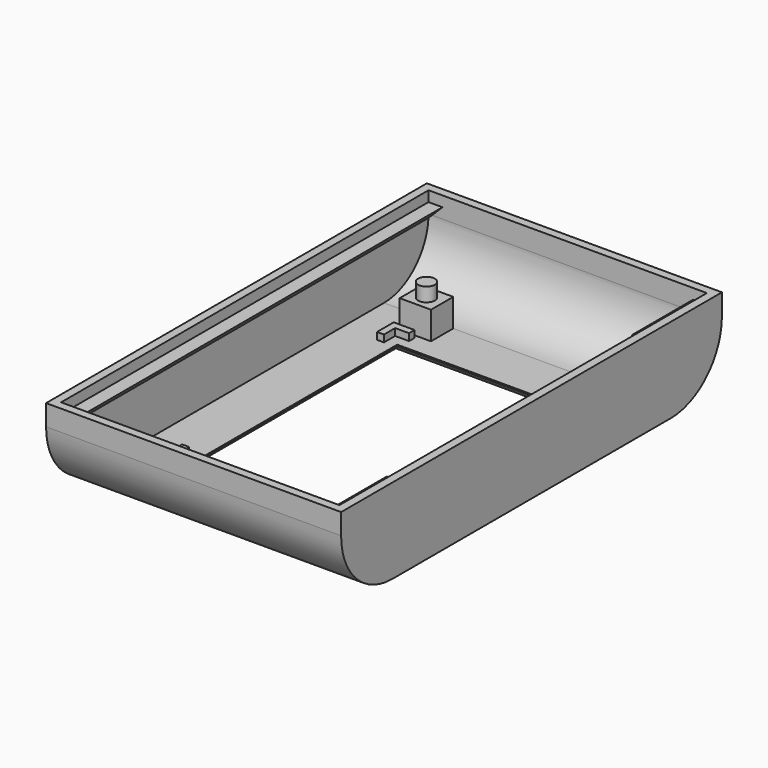
from build123d import *

# Parameters (mm, degrees)
PAD_DEPTH          = 18
PAD_DEPTH_BACK     = 22
THICKNESS_T        = 1.2
SKETCH002_W        = 29
SKETCH002_H        = 36
POCKET_DEPTH       = 12.201
CHAMFER_SIZE       = 1
PAD002_DEPTH       = 1
POLARPATTERN_COUNT = 2
PAD007_DEPTH       = 66
PAD008_DEPTH       = 66
SKETCH010_W        = 2
SKETCH010_H        = 44
POCKET001_DEPTH    = 2
SKETCH004_W        = 4
SKETCH004_H        = 4
PAD004_DEPTH       = 2.25
SKETCH006_R        = 1.2
PAD005_DEPTH       = 2
PAD003_DEPTH       = 2.25
PAD003_DEPTH_BACK  = 2.25
SKETCH007_R        = 1.2
PAD006_DEPTH       = 2


with BuildPart() as cuerpoprincipal:
    # Sketch → Pad (new body, two sides)
    with BuildSketch(Plane.YZ) as pad_sk:
        with BuildLine():
            Line((-25, 0), (25, 0))
            ThreePointArc((25, 0), (30.6568542495, 2.3431457505), (33, 8))
            Line((33, 11), (33, 8))
            Line((-33, 11), (33, 11))
            Line((-33, 11), (-33, 8))
            ThreePointArc((-33, 8), (-30.6568542495, 2.3431457505), (-25, 0))
        make_face()
    extrude(amount=PAD_DEPTH)
    extrude(pad_sk.sketch, amount=-PAD_DEPTH_BACK)

    # Thickness
    thickness_openings = [cuerpoprincipal.faces().sort_by_distance(p)[0] for p in [
        (-2, 0, 11),
    ]]
    offset(amount=THICKNESS_T, openings=thickness_openings, kind=Kind.INTERSECTION)

    # Sketch002 (on Face11 of Thickness) → Pocket (cut, through all)
    with BuildSketch(Plane(origin=(0, 0, -1.2), x_dir=(1, 0, 0), z_dir=(0, 0, -1))):
        Rectangle(SKETCH002_W, SKETCH002_H)
    extrude(amount=-POCKET_DEPTH, mode=Mode.SUBTRACT)

    # Chamfer
    chamfer_edges = [cuerpoprincipal.edges().sort_by_distance(p)[0] for p in [
        (0, 18, -1.2),
        (14.5, 0, -1.2),
        (0, -18, -1.2),
        (-14.5, 0, -1.2),
    ]]
    chamfer(chamfer_edges, length=CHAMFER_SIZE)

    # Sketch003 (on Face17 of Chamfer) → Pad002 (join)
    with BuildSketch(Plane.XY):
        Polygon((-17, 20.5), (-14, 20.5), (-14, 19.5), (-16, 19.5), (-16, 17.5), (-17, 17.5), align=None)
    pad002 = extrude(amount=PAD002_DEPTH)

    # PolarPattern: Pad002 ×2 about axis
    polarpattern_axis = Axis((0, 0, 0), (0, 0, 1))
    for i in range(1, POLARPATTERN_COUNT):
        add(pad002.rotate(polarpattern_axis, i * 360 / POLARPATTERN_COUNT))

    # Mirrored: Pad002 across XZ
    add(pad002.mirror(Plane.XZ))

    # Mirrored001: Pad002 across YZ
    add(pad002.mirror(Plane.YZ))

    # Sketch008 (on Face20 of Mirrored001) → Pad007 (join)
    with BuildSketch(Plane.XZ.offset(-33)):
        Polygon((-22, 7.5), (-20, 9.5), (-22, 9.5), align=None)
    extrude(amount=PAD007_DEPTH)

    # Sketch009 (on Face20 of Pad007) → Pad008 (join)
    with BuildSketch(Plane.XZ.offset(-33)):
        Polygon((16, 9.5), (18, 9.5), (18, 7.5), align=None)
    extrude(amount=PAD008_DEPTH)

    # Sketch010 (on Face53 of Pad008) → Pocket001 (cut)
    with BuildSketch(Plane.XY.offset(9.5)):
        with Locations((17, 0)):
            Rectangle(SKETCH010_W, SKETCH010_H)
    extrude(amount=-POCKET001_DEPTH, mode=Mode.SUBTRACT)


with BuildPart() as obj1:
    # Sketch004 → Pad004 (new body, symmetric)
    with BuildSketch(Plane.YZ.offset(14.3)):
        with Locations((23, 2)):
            Rectangle(SKETCH004_W, SKETCH004_H)
    extrude(amount=PAD004_DEPTH, both=True)

    # Sketch006 (on Face1 of Pad004) → Pad005 (join)
    with BuildSketch(Plane(origin=(0, 0, 4), x_dir=(0, -1, 0), z_dir=(0, 0, 1))):
        with Locations((-23, 14.3)):
            Circle(SKETCH006_R)
    extrude(amount=PAD005_DEPTH)


with BuildPart() as part_mirroring001:
    # Part__Mirroring001: instance of obj1
    add(obj1.part.mirror(Plane(origin=(0, 0, 0), x_dir=(0, -1, 0), z_dir=(1, 0, 0))))


with BuildPart() as obj2:
    # Sketch005 → Pad003 (new body, two sides)
    with BuildSketch(Plane.YZ.offset(14.3)) as pad003_sk:
        with BuildLine():
            Line((-31.25, 4), (-26.7500000001, 4))
            Line((-26.7500000001, 4), (-26.7500000001, 0.193752502))
            ThreePointArc((-31.25, 3.0062539111), (-29.2399930477, 1.2160145228), (-26.7500000001, 0.193752502))
            Line((-31.25, 4), (-31.25, 3.0062539111))
        make_face()
    extrude(amount=PAD003_DEPTH)
    extrude(pad003_sk.sketch, amount=-PAD003_DEPTH_BACK)

    # Sketch007 (on Face1 of Pad003) → Pad006 (join)
    with BuildSketch(Plane(origin=(0, 0, 4), x_dir=(0, -1, 0), z_dir=(0, 0, 1))):
        with Locations((29, 14.3)):
            Circle(SKETCH007_R)
    extrude(amount=PAD006_DEPTH)


with BuildPart() as part_mirroring002:
    # Part__Mirroring002: instance of obj2
    add(obj2.part.mirror(Plane(origin=(0, 0, 0), x_dir=(0, -1, 0), z_dir=(1, 0, 0))))


solid = Compound([cuerpoprincipal.part, part_mirroring001.part, part_mirroring002.part])
